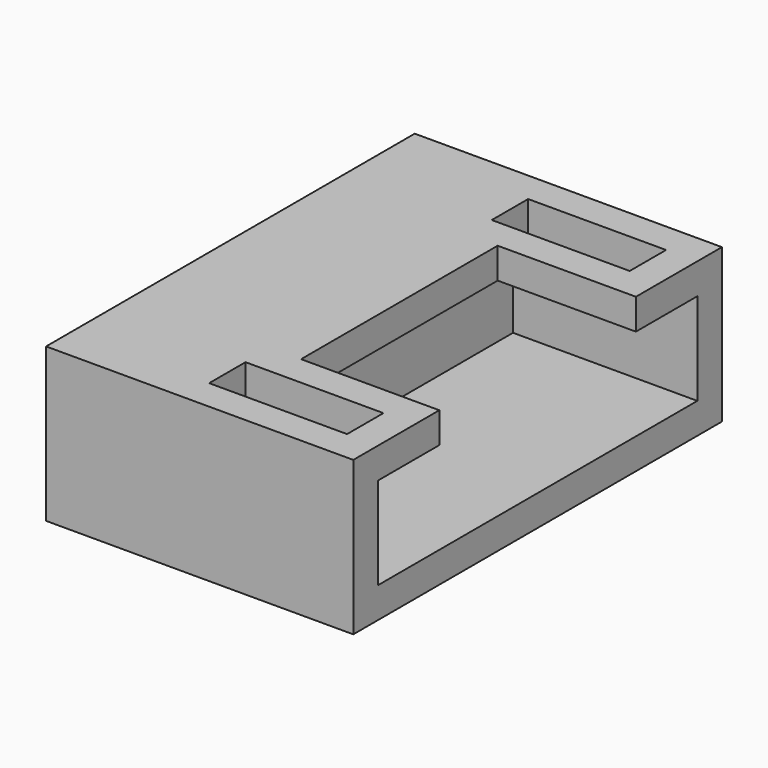
from build123d import *

# Parameters (mm, degrees)
SKETCH017_W     = 15
SKETCH017_H     = 5
PAD008_DEPTH    = 10
SKETCH018_W     = 13
SKETCH018_H     = 3
POCKET008_DEPTH = 6
SKETCH019_W     = 8
SKETCH019_H     = 1
POCKET009_DEPTH = 4.5
SKETCH020_W     = 1.48
SKETCH020_H     = 4.49
POCKET010_DEPTH = 2


with BuildPart() as part:
    # Sketch017 → Pad008 (new body)
    with BuildSketch(Plane.YZ):
        with Locations((0, 2.5)):
            Rectangle(SKETCH017_W, SKETCH017_H)
    extrude(amount=PAD008_DEPTH)

    # Sketch018 (on Face6 of Pad008) → Pocket008 (cut)
    with BuildSketch(Plane.YZ.offset(10)):
        with Locations((0, 2.5)):
            Rectangle(SKETCH018_W, SKETCH018_H)
    extrude(amount=-POCKET008_DEPTH, mode=Mode.SUBTRACT)

    # Sketch019 (on Face5 of Pocket008) → Pocket009 (cut)
    with BuildSketch(Plane.YZ.offset(10)):
        with Locations((0, 4.5)):
            Rectangle(SKETCH019_W, SKETCH019_H)
    extrude(amount=-POCKET009_DEPTH, mode=Mode.SUBTRACT)

    # Sketch020 (on Face6 of Pocket009) → Pocket010 (cut)
    with BuildSketch(Plane(origin=(0, 0, 5), x_dir=(0, -1, 0), z_dir=(0, 0, 1))):
        with Locations((-5.75, 6.745)):
            Rectangle(SKETCH020_W, SKETCH020_H)
        with Locations((5.75, 6.745)):
            Rectangle(SKETCH020_W, SKETCH020_H)
    extrude(amount=-POCKET010_DEPTH, mode=Mode.SUBTRACT)


solid = part.part
